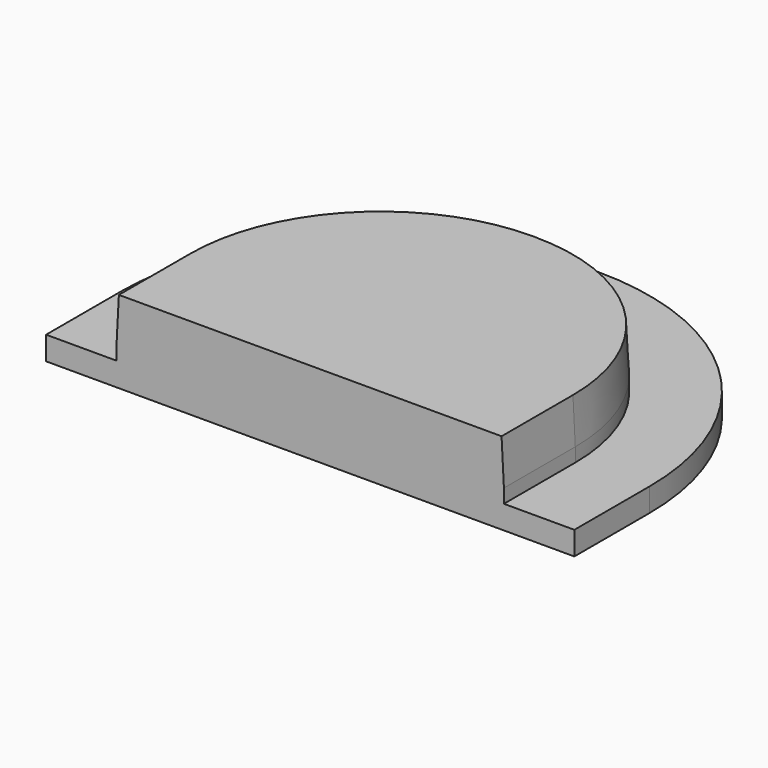
from build123d import *

# Parameters (mm, degrees)
F0_W     = 16.5
F0_H     = 12
F1_DEPTH = 2.5
F2_R     = 8.2
F3_W     = 22.5
F3_H     = 15
F4_DEPTH = 1
F5_R     = 11
F6_SIZE2 = 1.9081136688
F6_SIZE  = 0.1


with BuildPart() as f1:
    # F0 (on Top) → F1 (new body)
    with BuildSketch(Plane.XY):
        with Locations((8.25, -6)):
            Rectangle(F0_W, F0_H)
    extrude(amount=F1_DEPTH)

    # F2
    f2_edges = [f1.edges().sort_by_distance(p)[0] for p in [
        (16.5, 0, 1.25),
        (0, 0, 1.25),
    ]]
    fillet(f2_edges, radius=F2_R)

    # F3 (on face) → F4 (join)
    with BuildSketch(Plane(origin=(0, 0, 0), x_dir=(1, 0, 0), z_dir=(0, 0, -1))):
        with Locations((8.25, 4.5)):
            Rectangle(F3_W, F3_H)
    extrude(amount=F4_DEPTH)

    # F5
    f5_edges = [f1.edges().sort_by_distance(p)[0] for p in [
        (19.5, 3, -0.5),
        (-3, 3, -0.5),
    ]]
    fillet(f5_edges, radius=F5_R)

    # F6
    f6_edges = [f1.edges().sort_by_distance(p)[0] for p in [
        (0, -10.1, 2.5),
        (2.401724, -2.401724, 2.5),
        (14.098276, -2.401724, 2.5),
        (16.5, -10.1, 2.5),
    ]]
    f6_side = f1.faces().sort_by_distance((8.25, -6.711232, 2.5))[0]
    chamfer(f6_edges, length=F6_SIZE, length2=F6_SIZE2, reference=f6_side)


solid = f1.part
